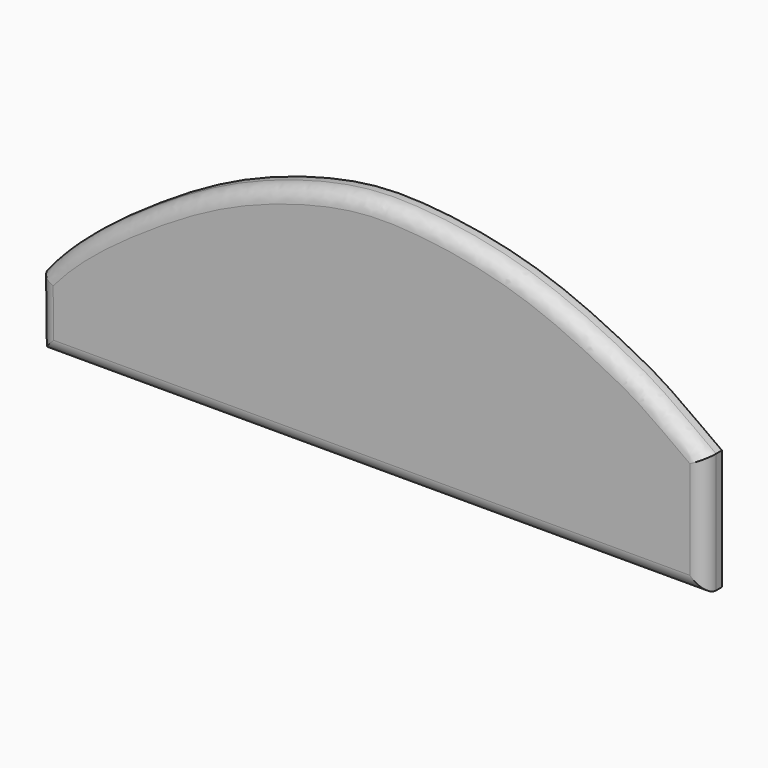
from build123d import *

# Parameters (mm, degrees)
F1_DEPTH = 3
F2_R     = 2


with BuildPart() as f1:
    # F0 (on Front) → F1 (new body)
    with BuildSketch(Plane.XZ):
        with BuildLine():
            Line((-45.4815110888, -0.3848903712), (-45.3719524288, -9.6397625337))
            Line((-45.3719524288, -9.6397625337), (45.882790834, -9.6397625337))
            Line((45.882790834, -9.6397625337), (45.882790834, 6.8723438843))
            add(Edge.make_bspline(
                [(-45.4815110888, -0.3848903712), (-41.8417168354, 4.1542411246), (-32.4115512404, 11.2348853063), (-19.6311352295, 18.9335833872), (-5.0384715674, 23.419081985), (5.6209472315, 23.7940507645), (21.5214061349, 21.1618756859), (34.6792711043, 14.3995509583), (38.3398564941, 12.4209440506), (45.327889945, 7.2540018263), (45.882790834, 6.8723438843)],
                knots=[0, 0, 0, 0, 0.1476961923, 0.2859700745, 0.421579933, 0.5370508235, 0.6803489558, 0.8123561449, 0.9014115871, 0.9837228536, 0.9837228536, 0.9837228536, 0.9837228536], degree=3))
        make_face()
    extrude(amount=F1_DEPTH)

    # F2
    f2_edges = [f1.edges().sort_by_distance(p)[0] for p in [
        (-1.359729, -3, 23.380607),
        (-45.426732, -3, -5.012326),
        (0.255419, -3, -9.639763),
        (45.882791, -3, -1.383709),
    ]]
    fillet(f2_edges, radius=F2_R)


solid = f1.part
